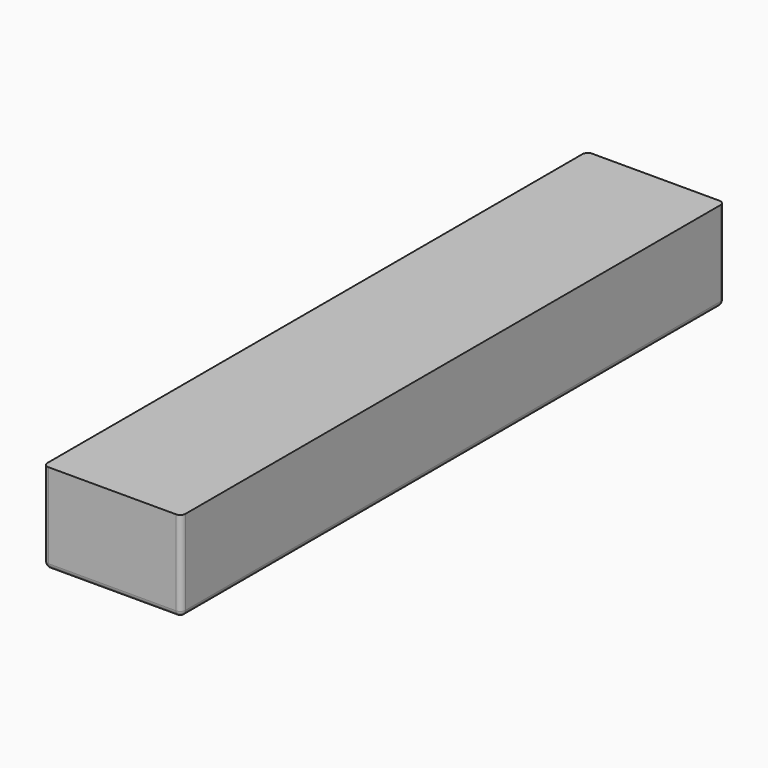
from build123d import *

# Parameters (mm, degrees)
F0_W     = 26
F0_H     = 128
F1_DEPTH = 17
F2_W     = 4
F2_H     = 40
F3_DEPTH = 15
F4_R     = 1


with BuildPart() as f1:
    # F0 (on Top) → F1 (new body)
    with BuildSketch(Plane.XY):
        with Locations((-13, 0)):
            Rectangle(F0_W, F0_H)
    extrude(amount=F1_DEPTH)

    # F2 (on Top) → F3 (cut)
    with BuildSketch(Plane.XY):
        with Locations((-10, 42)):
            Rectangle(F2_W, F2_H)
        with Locations((-4, 42)):
            Rectangle(F2_W, F2_H)
        with Locations((-16, 0)):
            Rectangle(F2_W, F2_H)
        with Locations((-10, 0)):
            Rectangle(F2_W, F2_H)
        with Locations((-4, 0)):
            Rectangle(F2_W, F2_H)
        with Locations((-16, -42)):
            Rectangle(F2_W, F2_H)
        with Locations((-10, -42)):
            Rectangle(F2_W, F2_H)
        with Locations((-4, -42)):
            Rectangle(F2_W, F2_H)
        with Locations((-16, 42)):
            Rectangle(F2_W, F2_H)
        with Locations((-22, 42)):
            Rectangle(F2_W, F2_H)
        with Locations((-22, 0)):
            Rectangle(F2_W, F2_H)
        with Locations((-22, -42)):
            Rectangle(F2_W, F2_H)
    extrude(amount=F3_DEPTH, mode=Mode.SUBTRACT)

    # F4
    f4_edges = [f1.edges().sort_by_distance(p)[0] for p in [
        (-26, 0, 0),
        (-13, -64, 0),
        (0, 0, 0),
        (-13, 64, 0),
        (-26, 64, 8.5),
        (0, 64, 8.5),
        (-26, -64, 8.5),
        (0, -64, 8.5),
    ]]
    fillet(f4_edges, radius=F4_R)


solid = f1.part
